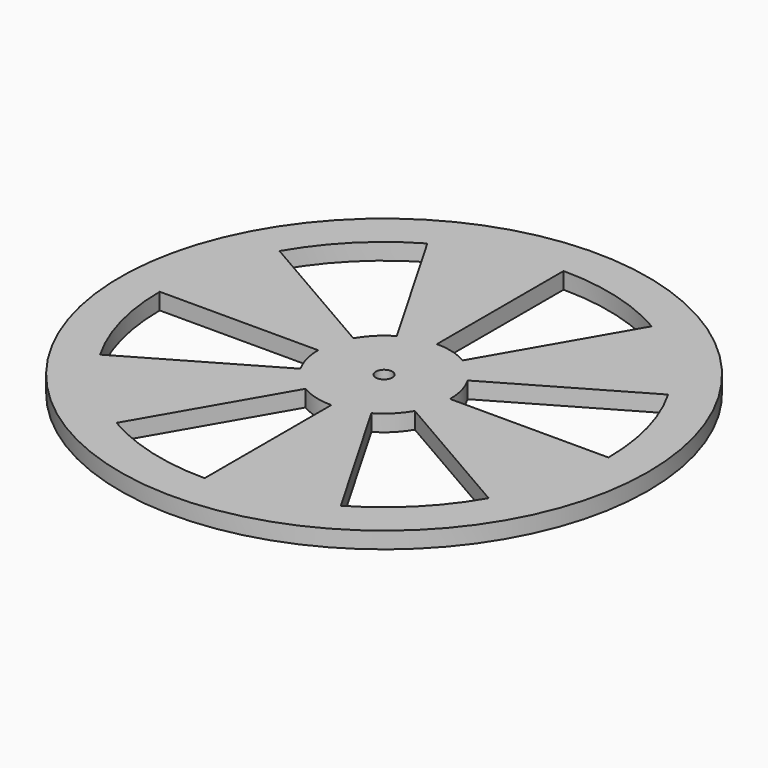
from build123d import *

# Parameters (mm, degrees)
F0_R     = 50.8
F1_DEPTH = 3.175


with BuildPart() as f1:
    # F0 (on Top) → F1 (new body)
    with BuildSketch(Plane.XY):
        Circle(F0_R)
        with BuildLine():
            Line((-21.59, -37.394977), (-6.35, -10.998523))
            ThreePointArc((-6.35, -10.998523), (-3.287002, -12.267258), (0, -12.7))
            Line((0, -12.7), (0, -43.18))
            ThreePointArc((0, -43.18), (-11.175806, -41.708677), (-21.59, -37.394977))
        make_face(mode=Mode.SUBTRACT)
        with BuildLine():
            Line((-43.18, 0), (-12.7, 0))
            ThreePointArc((-12.7, 0), (-12.267258, -3.287002), (-10.998523, -6.35))
            Line((-10.998523, -6.35), (-37.394977, -21.59))
            ThreePointArc((-37.394977, -21.59), (-41.708677, -11.175806), (-43.18, 0))
        make_face(mode=Mode.SUBTRACT)
        with BuildLine():
            ThreePointArc((-1.5875, 0), (0, 1.5875), (1.5875, 0))
            ThreePointArc((1.5875, 0), (0, -1.5875), (-1.5875, 0))
        make_face(mode=Mode.SUBTRACT)
        with BuildLine():
            Line((10.998523, -6.35), (37.394977, -21.59))
            ThreePointArc((37.394977, -21.59), (30.532871, -30.532871), (21.59, -37.394977))
            Line((21.59, -37.394977), (6.35, -10.998523))
            ThreePointArc((6.35, -10.998523), (8.980256, -8.980256), (10.998523, -6.35))
        make_face(mode=Mode.SUBTRACT)
        with BuildLine():
            ThreePointArc((-37.394977, 21.59), (-30.532871, 30.532871), (-21.59, 37.394977))
            Line((-21.59, 37.394977), (-6.35, 10.998523))
            ThreePointArc((-6.35, 10.998523), (-8.980256, 8.980256), (-10.998523, 6.35))
            Line((-10.998523, 6.35), (-37.394977, 21.59))
        make_face(mode=Mode.SUBTRACT)
        with BuildLine():
            ThreePointArc((12.7, 0), (12.267258, 3.287002), (10.998523, 6.35))
            Line((10.998523, 6.35), (37.394977, 21.59))
            ThreePointArc((37.394977, 21.59), (41.708677, 11.175806), (43.18, 0))
            Line((43.18, 0), (12.7, 0))
        make_face(mode=Mode.SUBTRACT)
        with BuildLine():
            Line((0, 12.7), (0, 43.18))
            ThreePointArc((0, 43.18), (11.175806, 41.708677), (21.59, 37.394977))
            Line((21.59, 37.394977), (6.35, 10.998523))
            ThreePointArc((6.35, 10.998523), (3.287002, 12.267258), (0, 12.7))
        make_face(mode=Mode.SUBTRACT)
    extrude(amount=F1_DEPTH)


solid = f1.part
